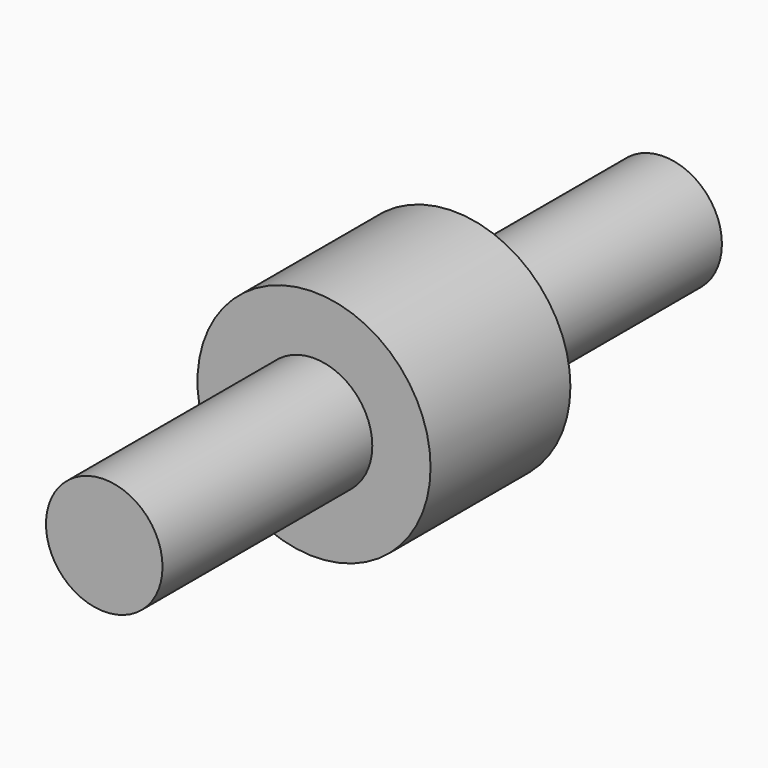
from build123d import *

# Parameters (mm, degrees)
F0_R     = 5
F1_DEPTH = 30
F2_R     = 10
F3_DEPTH = 7.5


with BuildPart() as f1:
    # F0 (on Front) → F1 (new body, symmetric)
    with BuildSketch(Plane.XZ):
        Circle(F0_R)
    extrude(amount=F1_DEPTH, both=True)

    # F2 (on Front) → F3 (join, symmetric)
    with BuildSketch(Plane.XZ):
        Circle(F2_R)
    extrude(amount=F3_DEPTH, both=True)


solid = f1.part
